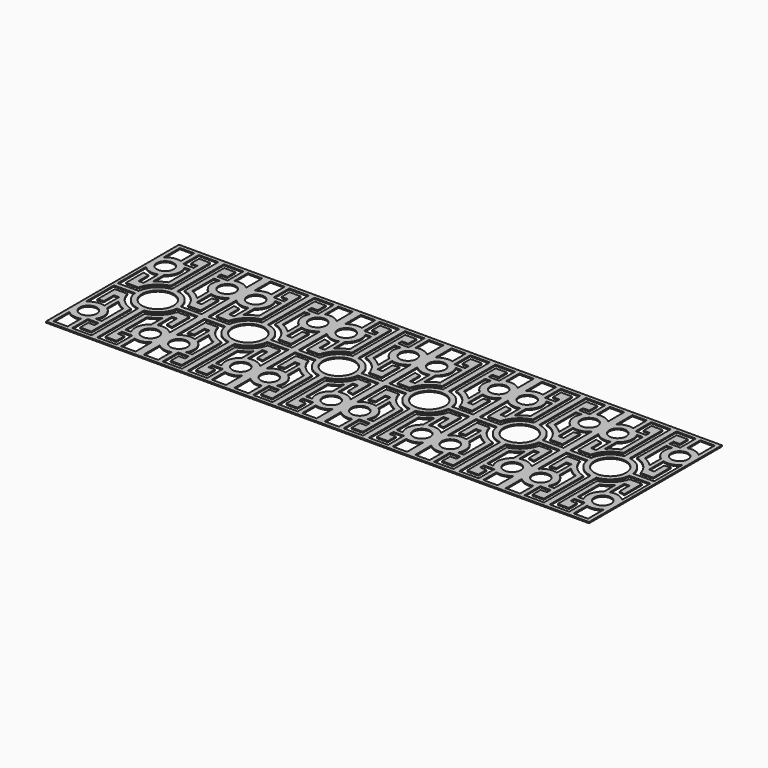
from build123d import *

# Parameters (mm, degrees)
F0_W     = 115.254596
F0_H     = 211.567118
F0_R     = 10.76863
F0_R_2   = 20.192213
F1_DEPTH = 1.5


with BuildPart() as f1:
    # F0 (on Top) → F1 (new body)
    with BuildSketch(Plane.XY):
        with Locations((-115.254596, 0)):
            Rectangle(F0_W, F0_H)
        with BuildLine():
            Line((-149.409611, -100.888878), (-167.683541, -100.888878))
            Line((-167.683541, -100.888878), (-167.683541, -75.117892))
            ThreePointArc((-167.683541, -75.117892), (-159.123179, -79.714213), (-149.409611, -79.484962))
            Line((-149.409611, -79.484962), (-149.409611, -100.888878))
        make_face(mode=Mode.SUBTRACT)
        with BuildLine():
            Line((-62.825651, -75.117892), (-62.825651, -100.888878))
            Line((-62.825651, -100.888878), (-81.099581, -100.888878))
            Line((-81.099581, -100.888878), (-81.099581, -79.484962))
            ThreePointArc((-81.099581, -79.484962), (-71.386013, -79.714213), (-62.825651, -75.117892))
        make_face(mode=Mode.SUBTRACT)
        with Locations((-154.700469, -61.207458)):
            Circle(F0_R, mode=Mode.SUBTRACT)
        with Locations((-75.808723, -61.207458)):
            Circle(F0_R, mode=Mode.SUBTRACT)
        with BuildLine():
            Line((-155.42195, -35.715152), (-155.42195, -19.60209))
            Line((-155.42195, -19.60209), (-148.931565, -19.60209))
            Line((-148.931565, -19.60209), (-148.931565, -42.870585))
            ThreePointArc((-148.931565, -42.870585), (-159.522739, -42.59921), (-168.649089, -47.98032))
            Line((-168.649089, -47.98032), (-168.649089, -3.002684))
            Line((-168.649089, -3.002684), (-141.906762, -3.002684))
            ThreePointArc((-141.906762, -3.002684), (-134.446725, -18.771767), (-118.866944, -26.619478))
            Line((-118.866944, -26.619478), (-118.866944, -100.888878))
            Line((-118.866944, -100.888878), (-143.637769, -100.888878))
            Line((-143.637769, -100.888878), (-143.637769, -75.877562))
            Line((-143.637769, -75.877562), (-130.25521, -75.877562))
            Line((-130.25521, -75.877562), (-130.25521, -81.848532))
            Line((-130.25521, -81.848532), (-138.36528, -81.848532))
            Line((-138.36528, -81.848532), (-138.36528, -94.636053))
            Line((-138.36528, -94.636053), (-124.157799, -94.636053))
            Line((-124.157799, -94.636053), (-123.921924, -31.816343))
            ThreePointArc((-123.921924, -31.816343), (-138.513939, -23.354882), (-147.004679, -8.779884))
            Line((-147.004679, -8.779884), (-162.836828, -8.779884))
            Line((-162.836828, -8.779884), (-162.836828, -37.037686))
            ThreePointArc((-162.836828, -37.037686), (-159.178483, -36.101172), (-155.42195, -35.715152))
        make_face(mode=Mode.SUBTRACT)
        with BuildLine():
            Line((-130.25521, -70.586704), (-137.770742, -70.586704))
            ThreePointArc((-137.770742, -70.586704), (-135.846436, -56.835806), (-143.625837, -45.33489))
            Line((-143.625837, -45.33489), (-143.625837, -27.023167))
            ThreePointArc((-143.625837, -27.023167), (-137.421408, -32.316356), (-130.25521, -36.209734))
            Line((-130.25521, -36.209734), (-130.25521, -70.586704))
        make_face(mode=Mode.SUBTRACT)
        with BuildLine():
            Line((-92.143912, -94.636053), (-92.143912, -81.848532))
            Line((-92.143912, -81.848532), (-100.253982, -81.848532))
            Line((-100.253982, -81.848532), (-100.253982, -75.877562))
            Line((-100.253982, -75.877562), (-86.871423, -75.877562))
            Line((-86.871423, -75.877562), (-86.871423, -100.888878))
            Line((-86.871423, -100.888878), (-111.642247, -100.888878))
            Line((-111.642247, -100.888878), (-111.642247, -26.619478))
            ThreePointArc((-111.642247, -26.619478), (-96.062467, -18.771767), (-88.602429, -3.002684))
            Line((-88.602429, -3.002684), (-61.860103, -3.002684))
            Line((-61.860103, -3.002684), (-61.860103, -47.98032))
            ThreePointArc((-61.860103, -47.98032), (-70.986453, -42.59921), (-81.577626, -42.870585))
            Line((-81.577626, -42.870585), (-81.577626, -19.60209))
            Line((-81.577626, -19.60209), (-75.087242, -19.60209))
            Line((-75.087242, -19.60209), (-75.087242, -35.715152))
            ThreePointArc((-75.087242, -35.715152), (-71.330709, -36.101172), (-67.672363, -37.037686))
            Line((-67.672363, -37.037686), (-67.672363, -8.779884))
            Line((-67.672363, -8.779884), (-83.504513, -8.779884))
            ThreePointArc((-83.504513, -8.779884), (-91.995253, -23.354882), (-106.587267, -31.816343))
            Line((-106.587267, -31.816343), (-106.351392, -94.636053))
            Line((-106.351392, -94.636053), (-92.143912, -94.636053))
        make_face(mode=Mode.SUBTRACT)
        with BuildLine():
            ThreePointArc((-86.883355, -45.33489), (-94.662755, -56.835806), (-92.738449, -70.586704))
            Line((-92.738449, -70.586704), (-100.253982, -70.586704))
            Line((-100.253982, -70.586704), (-100.253982, -36.209734))
            ThreePointArc((-100.253982, -36.209734), (-93.087784, -32.316356), (-86.883355, -27.023167))
            Line((-86.883355, -27.023167), (-86.883355, -45.33489))
        make_face(mode=Mode.SUBTRACT)
        with Locations((-115.254596, 0)):
            Circle(F0_R_2, mode=Mode.SUBTRACT)
        with BuildLine():
            ThreePointArc((-143.625837, 45.33489), (-135.846436, 56.835806), (-137.770742, 70.586704))
            Line((-137.770742, 70.586704), (-130.25521, 70.586704))
            Line((-130.25521, 70.586704), (-130.25521, 36.209734))
            ThreePointArc((-130.25521, 36.209734), (-137.421408, 32.316356), (-143.625837, 27.023167))
            Line((-143.625837, 27.023167), (-143.625837, 45.33489))
        make_face(mode=Mode.SUBTRACT)
        with BuildLine():
            Line((-155.42195, 19.60209), (-155.42195, 35.715152))
            ThreePointArc((-155.42195, 35.715152), (-159.178483, 36.101172), (-162.836828, 37.037686))
            Line((-162.836828, 37.037686), (-162.836828, 8.779884))
            Line((-162.836828, 8.779884), (-147.004679, 8.779884))
            ThreePointArc((-147.004679, 8.779884), (-138.513939, 23.354882), (-123.921924, 31.816343))
            Line((-123.921924, 31.816343), (-124.157799, 94.636053))
            Line((-124.157799, 94.636053), (-138.36528, 94.636053))
            Line((-138.36528, 94.636053), (-138.36528, 81.848532))
            Line((-138.36528, 81.848532), (-130.25521, 81.848532))
            Line((-130.25521, 81.848532), (-130.25521, 75.877562))
            Line((-130.25521, 75.877562), (-143.637769, 75.877562))
            Line((-143.637769, 75.877562), (-143.637769, 100.888878))
            Line((-143.637769, 100.888878), (-118.866944, 100.888878))
            Line((-118.866944, 100.888878), (-118.866944, 26.619478))
            ThreePointArc((-118.866944, 26.619478), (-134.446725, 18.771767), (-141.906762, 3.002684))
            Line((-141.906762, 3.002684), (-168.649089, 3.002684))
            Line((-168.649089, 3.002684), (-168.649089, 47.98032))
            ThreePointArc((-168.649089, 47.98032), (-159.522739, 42.59921), (-148.931565, 42.870585))
            Line((-148.931565, 42.870585), (-148.931565, 19.60209))
            Line((-148.931565, 19.60209), (-155.42195, 19.60209))
        make_face(mode=Mode.SUBTRACT)
        with BuildLine():
            Line((-100.253982, 70.586704), (-92.738449, 70.586704))
            ThreePointArc((-92.738449, 70.586704), (-94.662755, 56.835806), (-86.883355, 45.33489))
            Line((-86.883355, 45.33489), (-86.883355, 27.023167))
            ThreePointArc((-86.883355, 27.023167), (-93.087784, 32.316356), (-100.253982, 36.209734))
            Line((-100.253982, 36.209734), (-100.253982, 70.586704))
        make_face(mode=Mode.SUBTRACT)
        with BuildLine():
            ThreePointArc((-67.672363, 37.037686), (-71.330709, 36.101172), (-75.087242, 35.715152))
            Line((-75.087242, 35.715152), (-75.087242, 19.60209))
            Line((-75.087242, 19.60209), (-81.577626, 19.60209))
            Line((-81.577626, 19.60209), (-81.577626, 42.870585))
            ThreePointArc((-81.577626, 42.870585), (-70.986453, 42.59921), (-61.860103, 47.98032))
            Line((-61.860103, 47.98032), (-61.860103, 3.002684))
            Line((-61.860103, 3.002684), (-88.602429, 3.002684))
            ThreePointArc((-88.602429, 3.002684), (-96.062467, 18.771767), (-111.642247, 26.619478))
            Line((-111.642247, 26.619478), (-111.642247, 100.888878))
            Line((-111.642247, 100.888878), (-86.871423, 100.888878))
            Line((-86.871423, 100.888878), (-86.871423, 75.877562))
            Line((-86.871423, 75.877562), (-100.253982, 75.877562))
            Line((-100.253982, 75.877562), (-100.253982, 81.848532))
            Line((-100.253982, 81.848532), (-92.143912, 81.848532))
            Line((-92.143912, 81.848532), (-92.143912, 94.636053))
            Line((-92.143912, 94.636053), (-106.351392, 94.636053))
            Line((-106.351392, 94.636053), (-106.587267, 31.816343))
            ThreePointArc((-106.587267, 31.816343), (-91.995253, 23.354882), (-83.504513, 8.779884))
            Line((-83.504513, 8.779884), (-67.672363, 8.779884))
            Line((-67.672363, 8.779884), (-67.672363, 37.037686))
        make_face(mode=Mode.SUBTRACT)
        with Locations((-154.700469, 61.207458)):
            Circle(F0_R, mode=Mode.SUBTRACT)
        with Locations((-75.808723, 61.207458)):
            Circle(F0_R, mode=Mode.SUBTRACT)
        with BuildLine():
            Line((-149.409611, 100.888878), (-149.409611, 79.484962))
            ThreePointArc((-149.409611, 79.484962), (-159.123179, 79.714213), (-167.683541, 75.117892))
            Line((-167.683541, 75.117892), (-167.683541, 100.888878))
            Line((-167.683541, 100.888878), (-149.409611, 100.888878))
        make_face(mode=Mode.SUBTRACT)
        with BuildLine():
            Line((-62.825651, 100.888878), (-62.825651, 75.117892))
            ThreePointArc((-62.825651, 75.117892), (-71.386013, 79.714213), (-81.099581, 79.484962))
            Line((-81.099581, 79.484962), (-81.099581, 100.888878))
            Line((-81.099581, 100.888878), (-62.825651, 100.888878))
        make_face(mode=Mode.SUBTRACT)
        with Locations((-230.509192, 0)):
            Rectangle(F0_W, F0_H)
        with BuildLine():
            Line((-264.664207, -100.888878), (-282.938136, -100.888878))
            Line((-282.938136, -100.888878), (-282.938136, -75.117892))
            ThreePointArc((-282.938136, -75.117892), (-274.377775, -79.714213), (-264.664207, -79.484962))
            Line((-264.664207, -79.484962), (-264.664207, -100.888878))
        make_face(mode=Mode.SUBTRACT)
        with Locations((-269.955065, -61.207458)):
            Circle(F0_R, mode=Mode.SUBTRACT)
        with BuildLine():
            Line((-196.354177, -100.888878), (-196.354177, -79.484962))
            ThreePointArc((-196.354177, -79.484962), (-186.640609, -79.714213), (-178.080247, -75.117892))
            Line((-178.080247, -75.117892), (-178.080247, -100.888878))
            Line((-178.080247, -100.888878), (-196.354177, -100.888878))
        make_face(mode=Mode.SUBTRACT)
        with Locations((-191.063318, -61.207458)):
            Circle(F0_R, mode=Mode.SUBTRACT)
        with BuildLine():
            Line((-258.892365, -75.877562), (-245.509806, -75.877562))
            Line((-245.509806, -75.877562), (-245.509806, -81.848532))
            Line((-245.509806, -81.848532), (-253.619876, -81.848532))
            Line((-253.619876, -81.848532), (-253.619876, -94.636053))
            Line((-253.619876, -94.636053), (-239.412395, -94.636053))
            Line((-239.412395, -94.636053), (-239.17652, -31.816343))
            ThreePointArc((-239.17652, -31.816343), (-253.768535, -23.354882), (-262.259275, -8.779884))
            Line((-262.259275, -8.779884), (-278.091424, -8.779884))
            Line((-278.091424, -8.779884), (-278.091424, -37.037686))
            ThreePointArc((-278.091424, -37.037686), (-274.433079, -36.101172), (-270.676546, -35.715152))
            Line((-270.676546, -35.715152), (-270.676546, -19.60209))
            Line((-270.676546, -19.60209), (-264.186161, -19.60209))
            Line((-264.186161, -19.60209), (-264.186161, -42.870585))
            ThreePointArc((-264.186161, -42.870585), (-274.777335, -42.59921), (-283.903684, -47.98032))
            Line((-283.903684, -47.98032), (-283.903684, -3.002684))
            Line((-283.903684, -3.002684), (-257.161358, -3.002684))
            ThreePointArc((-257.161358, -3.002684), (-249.701321, -18.771767), (-234.12154, -26.619478))
            Line((-234.12154, -26.619478), (-234.12154, -100.888878))
            Line((-234.12154, -100.888878), (-258.892365, -100.888878))
            Line((-258.892365, -100.888878), (-258.892365, -75.877562))
        make_face(mode=Mode.SUBTRACT)
        with BuildLine():
            Line((-245.509806, -70.586704), (-253.025338, -70.586704))
            ThreePointArc((-253.025338, -70.586704), (-251.101032, -56.835806), (-258.880433, -45.33489))
            Line((-258.880433, -45.33489), (-258.880433, -27.023167))
            ThreePointArc((-258.880433, -27.023167), (-252.676004, -32.316356), (-245.509806, -36.209734))
            Line((-245.509806, -36.209734), (-245.509806, -70.586704))
        make_face(mode=Mode.SUBTRACT)
        with BuildLine():
            Line((-196.832222, -19.60209), (-190.341838, -19.60209))
            Line((-190.341838, -19.60209), (-190.341838, -35.715152))
            ThreePointArc((-190.341838, -35.715152), (-186.585305, -36.101172), (-182.926959, -37.037686))
            Line((-182.926959, -37.037686), (-182.926959, -8.779884))
            Line((-182.926959, -8.779884), (-198.759109, -8.779884))
            ThreePointArc((-198.759109, -8.779884), (-207.249849, -23.354882), (-221.841863, -31.816343))
            Line((-221.841863, -31.816343), (-221.605988, -94.636053))
            Line((-221.605988, -94.636053), (-207.398508, -94.636053))
            Line((-207.398508, -94.636053), (-207.398508, -81.848532))
            Line((-207.398508, -81.848532), (-215.508577, -81.848532))
            Line((-215.508577, -81.848532), (-215.508577, -75.877562))
            Line((-215.508577, -75.877562), (-202.126019, -75.877562))
            Line((-202.126019, -75.877562), (-202.126019, -100.888878))
            Line((-202.126019, -100.888878), (-226.896843, -100.888878))
            Line((-226.896843, -100.888878), (-226.896843, -26.619478))
            ThreePointArc((-226.896843, -26.619478), (-211.317063, -18.771767), (-203.857025, -3.002684))
            Line((-203.857025, -3.002684), (-177.114699, -3.002684))
            Line((-177.114699, -3.002684), (-177.114699, -47.98032))
            ThreePointArc((-177.114699, -47.98032), (-186.241049, -42.59921), (-196.832222, -42.870585))
            Line((-196.832222, -42.870585), (-196.832222, -19.60209))
        make_face(mode=Mode.SUBTRACT)
        with BuildLine():
            ThreePointArc((-202.137951, -45.33489), (-209.917351, -56.835806), (-207.993045, -70.586704))
            Line((-207.993045, -70.586704), (-215.508577, -70.586704))
            Line((-215.508577, -70.586704), (-215.508577, -36.209734))
            ThreePointArc((-215.508577, -36.209734), (-208.34238, -32.316356), (-202.137951, -27.023167))
            Line((-202.137951, -27.023167), (-202.137951, -45.33489))
        make_face(mode=Mode.SUBTRACT)
        with BuildLine():
            ThreePointArc((-258.880433, 45.33489), (-251.101032, 56.835806), (-253.025338, 70.586704))
            Line((-253.025338, 70.586704), (-245.509806, 70.586704))
            Line((-245.509806, 70.586704), (-245.509806, 36.209734))
            ThreePointArc((-245.509806, 36.209734), (-252.676004, 32.316356), (-258.880433, 27.023167))
            Line((-258.880433, 27.023167), (-258.880433, 45.33489))
        make_face(mode=Mode.SUBTRACT)
        with BuildLine():
            Line((-245.509806, 81.848532), (-245.509806, 75.877562))
            Line((-245.509806, 75.877562), (-258.892365, 75.877562))
            Line((-258.892365, 75.877562), (-258.892365, 100.888878))
            Line((-258.892365, 100.888878), (-234.12154, 100.888878))
            Line((-234.12154, 100.888878), (-234.12154, 26.619478))
            ThreePointArc((-234.12154, 26.619478), (-249.701321, 18.771767), (-257.161358, 3.002684))
            Line((-257.161358, 3.002684), (-283.903684, 3.002684))
            Line((-283.903684, 3.002684), (-283.903684, 47.98032))
            ThreePointArc((-283.903684, 47.98032), (-274.777335, 42.59921), (-264.186161, 42.870585))
            Line((-264.186161, 42.870585), (-264.186161, 19.60209))
            Line((-264.186161, 19.60209), (-270.676546, 19.60209))
            Line((-270.676546, 19.60209), (-270.676546, 35.715152))
            ThreePointArc((-270.676546, 35.715152), (-274.433079, 36.101172), (-278.091424, 37.037686))
            Line((-278.091424, 37.037686), (-278.091424, 8.779884))
            Line((-278.091424, 8.779884), (-262.259275, 8.779884))
            ThreePointArc((-262.259275, 8.779884), (-253.768535, 23.354882), (-239.17652, 31.816343))
            Line((-239.17652, 31.816343), (-239.412395, 94.636053))
            Line((-239.412395, 94.636053), (-253.619876, 94.636053))
            Line((-253.619876, 94.636053), (-253.619876, 81.848532))
            Line((-253.619876, 81.848532), (-245.509806, 81.848532))
        make_face(mode=Mode.SUBTRACT)
        with Locations((-230.509192, 0)):
            Circle(F0_R_2, mode=Mode.SUBTRACT)
        with BuildLine():
            Line((-215.508577, 70.586704), (-207.993045, 70.586704))
            ThreePointArc((-207.993045, 70.586704), (-209.917351, 56.835806), (-202.137951, 45.33489))
            Line((-202.137951, 45.33489), (-202.137951, 27.023167))
            ThreePointArc((-202.137951, 27.023167), (-208.34238, 32.316356), (-215.508577, 36.209734))
            Line((-215.508577, 36.209734), (-215.508577, 70.586704))
        make_face(mode=Mode.SUBTRACT)
        with BuildLine():
            Line((-202.126019, 75.877562), (-215.508577, 75.877562))
            Line((-215.508577, 75.877562), (-215.508577, 81.848532))
            Line((-215.508577, 81.848532), (-207.398508, 81.848532))
            Line((-207.398508, 81.848532), (-207.398508, 94.636053))
            Line((-207.398508, 94.636053), (-221.605988, 94.636053))
            Line((-221.605988, 94.636053), (-221.841863, 31.816343))
            ThreePointArc((-221.841863, 31.816343), (-207.249849, 23.354882), (-198.759109, 8.779884))
            Line((-198.759109, 8.779884), (-182.926959, 8.779884))
            Line((-182.926959, 8.779884), (-182.926959, 37.037686))
            ThreePointArc((-182.926959, 37.037686), (-186.585305, 36.101172), (-190.341838, 35.715152))
            Line((-190.341838, 35.715152), (-190.341838, 19.60209))
            Line((-190.341838, 19.60209), (-196.832222, 19.60209))
            Line((-196.832222, 19.60209), (-196.832222, 42.870585))
            ThreePointArc((-196.832222, 42.870585), (-186.241049, 42.59921), (-177.114699, 47.98032))
            Line((-177.114699, 47.98032), (-177.114699, 3.002684))
            Line((-177.114699, 3.002684), (-203.857025, 3.002684))
            ThreePointArc((-203.857025, 3.002684), (-211.317063, 18.771767), (-226.896843, 26.619478))
            Line((-226.896843, 26.619478), (-226.896843, 100.888878))
            Line((-226.896843, 100.888878), (-202.126019, 100.888878))
            Line((-202.126019, 100.888878), (-202.126019, 75.877562))
        make_face(mode=Mode.SUBTRACT)
        with Locations((-269.955065, 61.207458)):
            Circle(F0_R, mode=Mode.SUBTRACT)
        with BuildLine():
            Line((-264.664207, 100.888878), (-264.664207, 79.484962))
            ThreePointArc((-264.664207, 79.484962), (-274.377775, 79.714213), (-282.938136, 75.117892))
            Line((-282.938136, 75.117892), (-282.938136, 100.888878))
            Line((-282.938136, 100.888878), (-264.664207, 100.888878))
        make_face(mode=Mode.SUBTRACT)
        with Locations((-191.063318, 61.207458)):
            Circle(F0_R, mode=Mode.SUBTRACT)
        with BuildLine():
            Line((-178.080247, 100.888878), (-178.080247, 75.117892))
            ThreePointArc((-178.080247, 75.117892), (-186.640609, 79.714213), (-196.354177, 79.484962))
            Line((-196.354177, 79.484962), (-196.354177, 100.888878))
            Line((-196.354177, 100.888878), (-178.080247, 100.888878))
        make_face(mode=Mode.SUBTRACT)
        with Locations((-345.763788, 0)):
            Rectangle(F0_W, F0_H)
        with BuildLine():
            ThreePointArc((-398.192732, -75.117892), (-389.63237, -79.714213), (-379.918803, -79.484962))
            Line((-379.918803, -79.484962), (-379.918803, -100.888878))
            Line((-379.918803, -100.888878), (-398.192732, -100.888878))
            Line((-398.192732, -100.888878), (-398.192732, -75.117892))
        make_face(mode=Mode.SUBTRACT)
        with BuildLine():
            Line((-311.608773, -100.888878), (-311.608773, -79.484962))
            ThreePointArc((-311.608773, -79.484962), (-301.895205, -79.714213), (-293.334843, -75.117892))
            Line((-293.334843, -75.117892), (-293.334843, -100.888878))
            Line((-293.334843, -100.888878), (-311.608773, -100.888878))
        make_face(mode=Mode.SUBTRACT)
        with Locations((-385.209661, -61.207458)):
            Circle(F0_R, mode=Mode.SUBTRACT)
        with Locations((-306.317914, -61.207458)):
            Circle(F0_R, mode=Mode.SUBTRACT)
        with BuildLine():
            Line((-385.931142, -35.715152), (-385.931142, -19.60209))
            Line((-385.931142, -19.60209), (-379.440757, -19.60209))
            Line((-379.440757, -19.60209), (-379.440757, -42.870585))
            ThreePointArc((-379.440757, -42.870585), (-390.031931, -42.59921), (-399.15828, -47.98032))
            Line((-399.15828, -47.98032), (-399.15828, -3.002684))
            Line((-399.15828, -3.002684), (-372.415954, -3.002684))
            ThreePointArc((-372.415954, -3.002684), (-364.955917, -18.771767), (-349.376136, -26.619478))
            Line((-349.376136, -26.619478), (-349.376136, -100.888878))
            Line((-349.376136, -100.888878), (-374.146961, -100.888878))
            Line((-374.146961, -100.888878), (-374.146961, -75.877562))
            Line((-374.146961, -75.877562), (-360.764402, -75.877562))
            Line((-360.764402, -75.877562), (-360.764402, -81.848532))
            Line((-360.764402, -81.848532), (-368.874472, -81.848532))
            Line((-368.874472, -81.848532), (-368.874472, -94.636053))
            Line((-368.874472, -94.636053), (-354.666991, -94.636053))
            Line((-354.666991, -94.636053), (-354.431116, -31.816343))
            ThreePointArc((-354.431116, -31.816343), (-369.023131, -23.354882), (-377.513871, -8.779884))
            Line((-377.513871, -8.779884), (-393.34602, -8.779884))
            Line((-393.34602, -8.779884), (-393.34602, -37.037686))
            ThreePointArc((-393.34602, -37.037686), (-389.687675, -36.101172), (-385.931142, -35.715152))
        make_face(mode=Mode.SUBTRACT)
        with BuildLine():
            Line((-360.764402, -70.586704), (-368.279934, -70.586704))
            ThreePointArc((-368.279934, -70.586704), (-366.355628, -56.835806), (-374.135029, -45.33489))
            Line((-374.135029, -45.33489), (-374.135029, -27.023167))
            ThreePointArc((-374.135029, -27.023167), (-367.9306, -32.316356), (-360.764402, -36.209734))
            Line((-360.764402, -36.209734), (-360.764402, -70.586704))
        make_face(mode=Mode.SUBTRACT)
        with BuildLine():
            Line((-330.763173, -81.848532), (-330.763173, -75.877562))
            Line((-330.763173, -75.877562), (-317.380615, -75.877562))
            Line((-317.380615, -75.877562), (-317.380615, -100.888878))
            Line((-317.380615, -100.888878), (-342.151439, -100.888878))
            Line((-342.151439, -100.888878), (-342.151439, -26.619478))
            ThreePointArc((-342.151439, -26.619478), (-326.571658, -18.771767), (-319.111621, -3.002684))
            Line((-319.111621, -3.002684), (-292.369295, -3.002684))
            Line((-292.369295, -3.002684), (-292.369295, -47.98032))
            ThreePointArc((-292.369295, -47.98032), (-301.495645, -42.59921), (-312.086818, -42.870585))
            Line((-312.086818, -42.870585), (-312.086818, -19.60209))
            Line((-312.086818, -19.60209), (-305.596434, -19.60209))
            Line((-305.596434, -19.60209), (-305.596434, -35.715152))
            ThreePointArc((-305.596434, -35.715152), (-301.839901, -36.101172), (-298.181555, -37.037686))
            Line((-298.181555, -37.037686), (-298.181555, -8.779884))
            Line((-298.181555, -8.779884), (-314.013705, -8.779884))
            ThreePointArc((-314.013705, -8.779884), (-322.504444, -23.354882), (-337.096459, -31.816343))
            Line((-337.096459, -31.816343), (-336.860584, -94.636053))
            Line((-336.860584, -94.636053), (-322.653104, -94.636053))
            Line((-322.653104, -94.636053), (-322.653104, -81.848532))
            Line((-322.653104, -81.848532), (-330.763173, -81.848532))
        make_face(mode=Mode.SUBTRACT)
        with BuildLine():
            ThreePointArc((-317.392547, -45.33489), (-325.171947, -56.835806), (-323.247641, -70.586704))
            Line((-323.247641, -70.586704), (-330.763173, -70.586704))
            Line((-330.763173, -70.586704), (-330.763173, -36.209734))
            ThreePointArc((-330.763173, -36.209734), (-323.596975, -32.316356), (-317.392547, -27.023167))
            Line((-317.392547, -27.023167), (-317.392547, -45.33489))
        make_face(mode=Mode.SUBTRACT)
        with Locations((-345.763788, 0)):
            Circle(F0_R_2, mode=Mode.SUBTRACT)
        with BuildLine():
            ThreePointArc((-374.135029, 45.33489), (-366.355628, 56.835806), (-368.279934, 70.586704))
            Line((-368.279934, 70.586704), (-360.764402, 70.586704))
            Line((-360.764402, 70.586704), (-360.764402, 36.209734))
            ThreePointArc((-360.764402, 36.209734), (-367.9306, 32.316356), (-374.135029, 27.023167))
            Line((-374.135029, 27.023167), (-374.135029, 45.33489))
        make_face(mode=Mode.SUBTRACT)
        with BuildLine():
            Line((-360.764402, 81.848532), (-360.764402, 75.877562))
            Line((-360.764402, 75.877562), (-374.146961, 75.877562))
            Line((-374.146961, 75.877562), (-374.146961, 100.888878))
            Line((-374.146961, 100.888878), (-349.376136, 100.888878))
            Line((-349.376136, 100.888878), (-349.376136, 26.619478))
            ThreePointArc((-349.376136, 26.619478), (-364.955917, 18.771767), (-372.415954, 3.002684))
            Line((-372.415954, 3.002684), (-399.15828, 3.002684))
            Line((-399.15828, 3.002684), (-399.15828, 47.98032))
            ThreePointArc((-399.15828, 47.98032), (-390.031931, 42.59921), (-379.440757, 42.870585))
            Line((-379.440757, 42.870585), (-379.440757, 19.60209))
            Line((-379.440757, 19.60209), (-385.931142, 19.60209))
            Line((-385.931142, 19.60209), (-385.931142, 35.715152))
            ThreePointArc((-385.931142, 35.715152), (-389.687675, 36.101172), (-393.34602, 37.037686))
            Line((-393.34602, 37.037686), (-393.34602, 8.779884))
            Line((-393.34602, 8.779884), (-377.513871, 8.779884))
            ThreePointArc((-377.513871, 8.779884), (-369.023131, 23.354882), (-354.431116, 31.816343))
            Line((-354.431116, 31.816343), (-354.666991, 94.636053))
            Line((-354.666991, 94.636053), (-368.874472, 94.636053))
            Line((-368.874472, 94.636053), (-368.874472, 81.848532))
            Line((-368.874472, 81.848532), (-360.764402, 81.848532))
        make_face(mode=Mode.SUBTRACT)
        with BuildLine():
            Line((-330.763173, 70.586704), (-323.247641, 70.586704))
            ThreePointArc((-323.247641, 70.586704), (-325.171947, 56.835806), (-317.392547, 45.33489))
            Line((-317.392547, 45.33489), (-317.392547, 27.023167))
            ThreePointArc((-317.392547, 27.023167), (-323.596975, 32.316356), (-330.763173, 36.209734))
            Line((-330.763173, 36.209734), (-330.763173, 70.586704))
        make_face(mode=Mode.SUBTRACT)
        with BuildLine():
            ThreePointArc((-298.181555, 37.037686), (-301.839901, 36.101172), (-305.596434, 35.715152))
            Line((-305.596434, 35.715152), (-305.596434, 19.60209))
            Line((-305.596434, 19.60209), (-312.086818, 19.60209))
            Line((-312.086818, 19.60209), (-312.086818, 42.870585))
            ThreePointArc((-312.086818, 42.870585), (-301.495645, 42.59921), (-292.369295, 47.98032))
            Line((-292.369295, 47.98032), (-292.369295, 3.002684))
            Line((-292.369295, 3.002684), (-319.111621, 3.002684))
            ThreePointArc((-319.111621, 3.002684), (-326.571658, 18.771767), (-342.151439, 26.619478))
            Line((-342.151439, 26.619478), (-342.151439, 100.888878))
            Line((-342.151439, 100.888878), (-317.380615, 100.888878))
            Line((-317.380615, 100.888878), (-317.380615, 75.877562))
            Line((-317.380615, 75.877562), (-330.763173, 75.877562))
            Line((-330.763173, 75.877562), (-330.763173, 81.848532))
            Line((-330.763173, 81.848532), (-322.653104, 81.848532))
            Line((-322.653104, 81.848532), (-322.653104, 94.636053))
            Line((-322.653104, 94.636053), (-336.860584, 94.636053))
            Line((-336.860584, 94.636053), (-337.096459, 31.816343))
            ThreePointArc((-337.096459, 31.816343), (-322.504444, 23.354882), (-314.013705, 8.779884))
            Line((-314.013705, 8.779884), (-298.181555, 8.779884))
            Line((-298.181555, 8.779884), (-298.181555, 37.037686))
        make_face(mode=Mode.SUBTRACT)
        with Locations((-385.209661, 61.207458)):
            Circle(F0_R, mode=Mode.SUBTRACT)
        with Locations((-306.317914, 61.207458)):
            Circle(F0_R, mode=Mode.SUBTRACT)
        with BuildLine():
            Line((-398.192732, 75.117892), (-398.192732, 100.888878))
            Line((-398.192732, 100.888878), (-379.918803, 100.888878))
            Line((-379.918803, 100.888878), (-379.918803, 79.484962))
            ThreePointArc((-379.918803, 79.484962), (-389.63237, 79.714213), (-398.192732, 75.117892))
        make_face(mode=Mode.SUBTRACT)
        with BuildLine():
            Line((-311.608773, 100.888878), (-293.334843, 100.888878))
            Line((-293.334843, 100.888878), (-293.334843, 75.117892))
            ThreePointArc((-293.334843, 75.117892), (-301.895205, 79.714213), (-311.608773, 79.484962))
            Line((-311.608773, 79.484962), (-311.608773, 100.888878))
        make_face(mode=Mode.SUBTRACT)
        Rectangle(F0_W, F0_H)
        with BuildLine():
            ThreePointArc((-52.428945, -75.117892), (-43.868583, -79.714213), (-34.155015, -79.484962))
            Line((-34.155015, -79.484962), (-34.155015, -100.888878))
            Line((-34.155015, -100.888878), (-52.428945, -100.888878))
            Line((-52.428945, -100.888878), (-52.428945, -75.117892))
        make_face(mode=Mode.SUBTRACT)
        with BuildLine():
            Line((52.428945, -75.117892), (52.428945, -100.888878))
            Line((52.428945, -100.888878), (34.155015, -100.888878))
            Line((34.155015, -100.888878), (34.155015, -79.484962))
            ThreePointArc((34.155015, -79.484962), (43.868583, -79.714213), (52.428945, -75.117892))
        make_face(mode=Mode.SUBTRACT)
        with Locations((-39.445873, -61.207458)):
            Circle(F0_R, mode=Mode.SUBTRACT)
        with Locations((39.445873, -61.207458)):
            Circle(F0_R, mode=Mode.SUBTRACT)
        with BuildLine():
            Line((-28.383173, -75.877562), (-15.000614, -75.877562))
            Line((-15.000614, -75.877562), (-15.000614, -81.848532))
            Line((-15.000614, -81.848532), (-23.110684, -81.848532))
            Line((-23.110684, -81.848532), (-23.110684, -94.636053))
            Line((-23.110684, -94.636053), (-8.903204, -94.636053))
            Line((-8.903204, -94.636053), (-8.667328, -31.816343))
            ThreePointArc((-8.667328, -31.816343), (-23.259343, -23.354882), (-31.750083, -8.779884))
            Line((-31.750083, -8.779884), (-47.582232, -8.779884))
            Line((-47.582232, -8.779884), (-47.582232, -37.037686))
            ThreePointArc((-47.582232, -37.037686), (-43.923887, -36.101172), (-40.167354, -35.715152))
            Line((-40.167354, -35.715152), (-40.167354, -19.60209))
            Line((-40.167354, -19.60209), (-33.67697, -19.60209))
            Line((-33.67697, -19.60209), (-33.67697, -42.870585))
            ThreePointArc((-33.67697, -42.870585), (-44.268143, -42.59921), (-53.394493, -47.98032))
            Line((-53.394493, -47.98032), (-53.394493, -3.002684))
            Line((-53.394493, -3.002684), (-26.652166, -3.002684))
            ThreePointArc((-26.652166, -3.002684), (-19.192129, -18.771767), (-3.612349, -26.619478))
            Line((-3.612349, -26.619478), (-3.612349, -100.888878))
            Line((-3.612349, -100.888878), (-28.383173, -100.888878))
            Line((-28.383173, -100.888878), (-28.383173, -75.877562))
        make_face(mode=Mode.SUBTRACT)
        with BuildLine():
            Line((-15.000614, -70.586704), (-22.516146, -70.586704))
            ThreePointArc((-22.516146, -70.586704), (-20.591841, -56.835806), (-28.371241, -45.33489))
            Line((-28.371241, -45.33489), (-28.371241, -27.023167))
            ThreePointArc((-28.371241, -27.023167), (-22.166812, -32.316356), (-15.000614, -36.209734))
            Line((-15.000614, -36.209734), (-15.000614, -70.586704))
        make_face(mode=Mode.SUBTRACT)
        with BuildLine():
            Line((33.67697, -19.60209), (40.167354, -19.60209))
            Line((40.167354, -19.60209), (40.167354, -35.715152))
            ThreePointArc((40.167354, -35.715152), (43.923887, -36.101172), (47.582232, -37.037686))
            Line((47.582232, -37.037686), (47.582232, -8.779884))
            Line((47.582232, -8.779884), (31.750083, -8.779884))
            ThreePointArc((31.750083, -8.779884), (23.259343, -23.354882), (8.667328, -31.816343))
            Line((8.667328, -31.816343), (8.903204, -94.636053))
            Line((8.903204, -94.636053), (23.110684, -94.636053))
            Line((23.110684, -94.636053), (23.110684, -81.848532))
            Line((23.110684, -81.848532), (15.000614, -81.848532))
            Line((15.000614, -81.848532), (15.000614, -75.877562))
            Line((15.000614, -75.877562), (28.383173, -75.877562))
            Line((28.383173, -75.877562), (28.383173, -100.888878))
            Line((28.383173, -100.888878), (3.612349, -100.888878))
            Line((3.612349, -100.888878), (3.612349, -26.619478))
            ThreePointArc((3.612349, -26.619478), (19.192129, -18.771767), (26.652166, -3.002684))
            Line((26.652166, -3.002684), (53.394493, -3.002684))
            Line((53.394493, -3.002684), (53.394493, -47.98032))
            ThreePointArc((53.394493, -47.98032), (44.268143, -42.59921), (33.67697, -42.870585))
            Line((33.67697, -42.870585), (33.67697, -19.60209))
        make_face(mode=Mode.SUBTRACT)
        with BuildLine():
            ThreePointArc((28.371241, -45.33489), (20.591841, -56.835806), (22.516146, -70.586704))
            Line((22.516146, -70.586704), (15.000614, -70.586704))
            Line((15.000614, -70.586704), (15.000614, -36.209734))
            ThreePointArc((15.000614, -36.209734), (22.166812, -32.316356), (28.371241, -27.023167))
            Line((28.371241, -27.023167), (28.371241, -45.33489))
        make_face(mode=Mode.SUBTRACT)
        Circle(F0_R_2, mode=Mode.SUBTRACT)
        with BuildLine():
            ThreePointArc((-28.371241, 45.33489), (-20.591841, 56.835806), (-22.516146, 70.586704))
            Line((-22.516146, 70.586704), (-15.000614, 70.586704))
            Line((-15.000614, 70.586704), (-15.000614, 36.209734))
            ThreePointArc((-15.000614, 36.209734), (-22.166812, 32.316356), (-28.371241, 27.023167))
            Line((-28.371241, 27.023167), (-28.371241, 45.33489))
        make_face(mode=Mode.SUBTRACT)
        with BuildLine():
            Line((-15.000614, 81.848532), (-15.000614, 75.877562))
            Line((-15.000614, 75.877562), (-28.383173, 75.877562))
            Line((-28.383173, 75.877562), (-28.383173, 100.888878))
            Line((-28.383173, 100.888878), (-3.612349, 100.888878))
            Line((-3.612349, 100.888878), (-3.612349, 26.619478))
            ThreePointArc((-3.612349, 26.619478), (-19.192129, 18.771767), (-26.652166, 3.002684))
            Line((-26.652166, 3.002684), (-53.394493, 3.002684))
            Line((-53.394493, 3.002684), (-53.394493, 47.98032))
            ThreePointArc((-53.394493, 47.98032), (-44.268143, 42.59921), (-33.67697, 42.870585))
            Line((-33.67697, 42.870585), (-33.67697, 19.60209))
            Line((-33.67697, 19.60209), (-40.167354, 19.60209))
            Line((-40.167354, 19.60209), (-40.167354, 35.715152))
            ThreePointArc((-40.167354, 35.715152), (-43.923887, 36.101172), (-47.582232, 37.037686))
            Line((-47.582232, 37.037686), (-47.582232, 8.779884))
            Line((-47.582232, 8.779884), (-31.750083, 8.779884))
            ThreePointArc((-31.750083, 8.779884), (-23.259343, 23.354882), (-8.667328, 31.816343))
            Line((-8.667328, 31.816343), (-8.903204, 94.636053))
            Line((-8.903204, 94.636053), (-23.110684, 94.636053))
            Line((-23.110684, 94.636053), (-23.110684, 81.848532))
            Line((-23.110684, 81.848532), (-15.000614, 81.848532))
        make_face(mode=Mode.SUBTRACT)
        with BuildLine():
            Line((15.000614, 70.586704), (22.516146, 70.586704))
            ThreePointArc((22.516146, 70.586704), (20.591841, 56.835806), (28.371241, 45.33489))
            Line((28.371241, 45.33489), (28.371241, 27.023167))
            ThreePointArc((28.371241, 27.023167), (22.166812, 32.316356), (15.000614, 36.209734))
            Line((15.000614, 36.209734), (15.000614, 70.586704))
        make_face(mode=Mode.SUBTRACT)
        with BuildLine():
            ThreePointArc((47.582232, 37.037686), (43.923887, 36.101172), (40.167354, 35.715152))
            Line((40.167354, 35.715152), (40.167354, 19.60209))
            Line((40.167354, 19.60209), (33.67697, 19.60209))
            Line((33.67697, 19.60209), (33.67697, 42.870585))
            ThreePointArc((33.67697, 42.870585), (44.268143, 42.59921), (53.394493, 47.98032))
            Line((53.394493, 47.98032), (53.394493, 3.002684))
            Line((53.394493, 3.002684), (26.652166, 3.002684))
            ThreePointArc((26.652166, 3.002684), (19.192129, 18.771767), (3.612349, 26.619478))
            Line((3.612349, 26.619478), (3.612349, 100.888878))
            Line((3.612349, 100.888878), (28.383173, 100.888878))
            Line((28.383173, 100.888878), (28.383173, 75.877562))
            Line((28.383173, 75.877562), (15.000614, 75.877562))
            Line((15.000614, 75.877562), (15.000614, 81.848532))
            Line((15.000614, 81.848532), (23.110684, 81.848532))
            Line((23.110684, 81.848532), (23.110684, 94.636053))
            Line((23.110684, 94.636053), (8.903204, 94.636053))
            Line((8.903204, 94.636053), (8.667328, 31.816343))
            ThreePointArc((8.667328, 31.816343), (23.259343, 23.354882), (31.750083, 8.779884))
            Line((31.750083, 8.779884), (47.582232, 8.779884))
            Line((47.582232, 8.779884), (47.582232, 37.037686))
        make_face(mode=Mode.SUBTRACT)
        with Locations((-39.445873, 61.207458)):
            Circle(F0_R, mode=Mode.SUBTRACT)
        with Locations((39.445873, 61.207458)):
            Circle(F0_R, mode=Mode.SUBTRACT)
        with BuildLine():
            Line((-52.428945, 75.117892), (-52.428945, 100.888878))
            Line((-52.428945, 100.888878), (-34.155015, 100.888878))
            Line((-34.155015, 100.888878), (-34.155015, 79.484962))
            ThreePointArc((-34.155015, 79.484962), (-43.868583, 79.714213), (-52.428945, 75.117892))
        make_face(mode=Mode.SUBTRACT)
        with BuildLine():
            Line((34.155015, 100.888878), (52.428945, 100.888878))
            Line((52.428945, 100.888878), (52.428945, 75.117892))
            ThreePointArc((52.428945, 75.117892), (43.868583, 79.714213), (34.155015, 79.484962))
            Line((34.155015, 79.484962), (34.155015, 100.888878))
        make_face(mode=Mode.SUBTRACT)
        with Locations((115.254596, 0)):
            Rectangle(F0_W, F0_H)
        with BuildLine():
            Line((81.099581, -100.888878), (62.825651, -100.888878))
            Line((62.825651, -100.888878), (62.825651, -75.117892))
            ThreePointArc((62.825651, -75.117892), (71.386013, -79.714213), (81.099581, -79.484962))
            Line((81.099581, -79.484962), (81.099581, -100.888878))
        make_face(mode=Mode.SUBTRACT)
        with Locations((75.808723, -61.207458)):
            Circle(F0_R, mode=Mode.SUBTRACT)
        with BuildLine():
            Line((167.683541, -75.117892), (167.683541, -100.888878))
            Line((167.683541, -100.888878), (149.409611, -100.888878))
            Line((149.409611, -100.888878), (149.409611, -79.484962))
            ThreePointArc((149.409611, -79.484962), (159.123179, -79.714213), (167.683541, -75.117892))
        make_face(mode=Mode.SUBTRACT)
        with Locations((154.700469, -61.207458)):
            Circle(F0_R, mode=Mode.SUBTRACT)
        with BuildLine():
            Line((86.871423, -75.877562), (100.253982, -75.877562))
            Line((100.253982, -75.877562), (100.253982, -81.848532))
            Line((100.253982, -81.848532), (92.143912, -81.848532))
            Line((92.143912, -81.848532), (92.143912, -94.636053))
            Line((92.143912, -94.636053), (106.351392, -94.636053))
            Line((106.351392, -94.636053), (106.587267, -31.816343))
            ThreePointArc((106.587267, -31.816343), (91.995253, -23.354882), (83.504513, -8.779884))
            Line((83.504513, -8.779884), (67.672363, -8.779884))
            Line((67.672363, -8.779884), (67.672363, -37.037686))
            ThreePointArc((67.672363, -37.037686), (71.330709, -36.101172), (75.087242, -35.715152))
            Line((75.087242, -35.715152), (75.087242, -19.60209))
            Line((75.087242, -19.60209), (81.577626, -19.60209))
            Line((81.577626, -19.60209), (81.577626, -42.870585))
            ThreePointArc((81.577626, -42.870585), (70.986453, -42.59921), (61.860103, -47.98032))
            Line((61.860103, -47.98032), (61.860103, -3.002684))
            Line((61.860103, -3.002684), (88.602429, -3.002684))
            ThreePointArc((88.602429, -3.002684), (96.062467, -18.771767), (111.642247, -26.619478))
            Line((111.642247, -26.619478), (111.642247, -100.888878))
            Line((111.642247, -100.888878), (86.871423, -100.888878))
            Line((86.871423, -100.888878), (86.871423, -75.877562))
        make_face(mode=Mode.SUBTRACT)
        with BuildLine():
            Line((100.253982, -70.586704), (92.738449, -70.586704))
            ThreePointArc((92.738449, -70.586704), (94.662755, -56.835806), (86.883355, -45.33489))
            Line((86.883355, -45.33489), (86.883355, -27.023167))
            ThreePointArc((86.883355, -27.023167), (93.087784, -32.316356), (100.253982, -36.209734))
            Line((100.253982, -36.209734), (100.253982, -70.586704))
        make_face(mode=Mode.SUBTRACT)
        with BuildLine():
            Line((130.25521, -81.848532), (130.25521, -75.877562))
            Line((130.25521, -75.877562), (143.637769, -75.877562))
            Line((143.637769, -75.877562), (143.637769, -100.888878))
            Line((143.637769, -100.888878), (118.866944, -100.888878))
            Line((118.866944, -100.888878), (118.866944, -26.619478))
            ThreePointArc((118.866944, -26.619478), (134.446725, -18.771767), (141.906762, -3.002684))
            Line((141.906762, -3.002684), (168.649089, -3.002684))
            Line((168.649089, -3.002684), (168.649089, -47.98032))
            ThreePointArc((168.649089, -47.98032), (159.522739, -42.59921), (148.931565, -42.870585))
            Line((148.931565, -42.870585), (148.931565, -19.60209))
            Line((148.931565, -19.60209), (155.42195, -19.60209))
            Line((155.42195, -19.60209), (155.42195, -35.715152))
            ThreePointArc((155.42195, -35.715152), (159.178483, -36.101172), (162.836828, -37.037686))
            Line((162.836828, -37.037686), (162.836828, -8.779884))
            Line((162.836828, -8.779884), (147.004679, -8.779884))
            ThreePointArc((147.004679, -8.779884), (138.513939, -23.354882), (123.921924, -31.816343))
            Line((123.921924, -31.816343), (124.157799, -94.636053))
            Line((124.157799, -94.636053), (138.36528, -94.636053))
            Line((138.36528, -94.636053), (138.36528, -81.848532))
            Line((138.36528, -81.848532), (130.25521, -81.848532))
        make_face(mode=Mode.SUBTRACT)
        with BuildLine():
            ThreePointArc((143.625837, -45.33489), (135.846436, -56.835806), (137.770742, -70.586704))
            Line((137.770742, -70.586704), (130.25521, -70.586704))
            Line((130.25521, -70.586704), (130.25521, -36.209734))
            ThreePointArc((130.25521, -36.209734), (137.421408, -32.316356), (143.625837, -27.023167))
            Line((143.625837, -27.023167), (143.625837, -45.33489))
        make_face(mode=Mode.SUBTRACT)
        with BuildLine():
            ThreePointArc((86.883355, 45.33489), (94.662755, 56.835806), (92.738449, 70.586704))
            Line((92.738449, 70.586704), (100.253982, 70.586704))
            Line((100.253982, 70.586704), (100.253982, 36.209734))
            ThreePointArc((100.253982, 36.209734), (93.087784, 32.316356), (86.883355, 27.023167))
            Line((86.883355, 27.023167), (86.883355, 45.33489))
        make_face(mode=Mode.SUBTRACT)
        with BuildLine():
            Line((100.253982, 81.848532), (100.253982, 75.877562))
            Line((100.253982, 75.877562), (86.871423, 75.877562))
            Line((86.871423, 75.877562), (86.871423, 100.888878))
            Line((86.871423, 100.888878), (111.642247, 100.888878))
            Line((111.642247, 100.888878), (111.642247, 26.619478))
            ThreePointArc((111.642247, 26.619478), (96.062467, 18.771767), (88.602429, 3.002684))
            Line((88.602429, 3.002684), (61.860103, 3.002684))
            Line((61.860103, 3.002684), (61.860103, 47.98032))
            ThreePointArc((61.860103, 47.98032), (70.986453, 42.59921), (81.577626, 42.870585))
            Line((81.577626, 42.870585), (81.577626, 19.60209))
            Line((81.577626, 19.60209), (75.087242, 19.60209))
            Line((75.087242, 19.60209), (75.087242, 35.715152))
            ThreePointArc((75.087242, 35.715152), (71.330709, 36.101172), (67.672363, 37.037686))
            Line((67.672363, 37.037686), (67.672363, 8.779884))
            Line((67.672363, 8.779884), (83.504513, 8.779884))
            ThreePointArc((83.504513, 8.779884), (91.995253, 23.354882), (106.587267, 31.816343))
            Line((106.587267, 31.816343), (106.351392, 94.636053))
            Line((106.351392, 94.636053), (92.143912, 94.636053))
            Line((92.143912, 94.636053), (92.143912, 81.848532))
            Line((92.143912, 81.848532), (100.253982, 81.848532))
        make_face(mode=Mode.SUBTRACT)
        with Locations((115.254596, 0)):
            Circle(F0_R_2, mode=Mode.SUBTRACT)
        with BuildLine():
            Line((130.25521, 70.586704), (137.770742, 70.586704))
            ThreePointArc((137.770742, 70.586704), (135.846436, 56.835806), (143.625837, 45.33489))
            Line((143.625837, 45.33489), (143.625837, 27.023167))
            ThreePointArc((143.625837, 27.023167), (137.421408, 32.316356), (130.25521, 36.209734))
            Line((130.25521, 36.209734), (130.25521, 70.586704))
        make_face(mode=Mode.SUBTRACT)
        with BuildLine():
            Line((143.637769, 75.877562), (130.25521, 75.877562))
            Line((130.25521, 75.877562), (130.25521, 81.848532))
            Line((130.25521, 81.848532), (138.36528, 81.848532))
            Line((138.36528, 81.848532), (138.36528, 94.636053))
            Line((138.36528, 94.636053), (124.157799, 94.636053))
            Line((124.157799, 94.636053), (123.921924, 31.816343))
            ThreePointArc((123.921924, 31.816343), (138.513939, 23.354882), (147.004679, 8.779884))
            Line((147.004679, 8.779884), (162.836828, 8.779884))
            Line((162.836828, 8.779884), (162.836828, 37.037686))
            ThreePointArc((162.836828, 37.037686), (159.178483, 36.101172), (155.42195, 35.715152))
            Line((155.42195, 35.715152), (155.42195, 19.60209))
            Line((155.42195, 19.60209), (148.931565, 19.60209))
            Line((148.931565, 19.60209), (148.931565, 42.870585))
            ThreePointArc((148.931565, 42.870585), (159.522739, 42.59921), (168.649089, 47.98032))
            Line((168.649089, 47.98032), (168.649089, 3.002684))
            Line((168.649089, 3.002684), (141.906762, 3.002684))
            ThreePointArc((141.906762, 3.002684), (134.446725, 18.771767), (118.866944, 26.619478))
            Line((118.866944, 26.619478), (118.866944, 100.888878))
            Line((118.866944, 100.888878), (143.637769, 100.888878))
            Line((143.637769, 100.888878), (143.637769, 75.877562))
        make_face(mode=Mode.SUBTRACT)
        with Locations((75.808723, 61.207458)):
            Circle(F0_R, mode=Mode.SUBTRACT)
        with BuildLine():
            Line((81.099581, 100.888878), (81.099581, 79.484962))
            ThreePointArc((81.099581, 79.484962), (71.386013, 79.714213), (62.825651, 75.117892))
            Line((62.825651, 75.117892), (62.825651, 100.888878))
            Line((62.825651, 100.888878), (81.099581, 100.888878))
        make_face(mode=Mode.SUBTRACT)
        with Locations((154.700469, 61.207458)):
            Circle(F0_R, mode=Mode.SUBTRACT)
        with BuildLine():
            Line((167.683541, 100.888878), (167.683541, 75.117892))
            ThreePointArc((167.683541, 75.117892), (159.123179, 79.714213), (149.409611, 79.484962))
            Line((149.409611, 79.484962), (149.409611, 100.888878))
            Line((149.409611, 100.888878), (167.683541, 100.888878))
        make_face(mode=Mode.SUBTRACT)
        with Locations((230.509192, 0)):
            Rectangle(F0_W, F0_H)
        with BuildLine():
            Line((196.354177, -100.888878), (178.080247, -100.888878))
            Line((178.080247, -100.888878), (178.080247, -75.117892))
            ThreePointArc((178.080247, -75.117892), (186.640609, -79.714213), (196.354177, -79.484962))
            Line((196.354177, -79.484962), (196.354177, -100.888878))
        make_face(mode=Mode.SUBTRACT)
        with BuildLine():
            Line((282.938136, -75.117892), (282.938136, -100.888878))
            Line((282.938136, -100.888878), (264.664207, -100.888878))
            Line((264.664207, -100.888878), (264.664207, -79.484962))
            ThreePointArc((264.664207, -79.484962), (274.377775, -79.714213), (282.938136, -75.117892))
        make_face(mode=Mode.SUBTRACT)
        with Locations((191.063318, -61.207458)):
            Circle(F0_R, mode=Mode.SUBTRACT)
        with Locations((269.955065, -61.207458)):
            Circle(F0_R, mode=Mode.SUBTRACT)
        with BuildLine():
            Line((202.126019, -75.877562), (215.508577, -75.877562))
            Line((215.508577, -75.877562), (215.508577, -81.848532))
            Line((215.508577, -81.848532), (207.398508, -81.848532))
            Line((207.398508, -81.848532), (207.398508, -94.636053))
            Line((207.398508, -94.636053), (221.605988, -94.636053))
            Line((221.605988, -94.636053), (221.841863, -31.816343))
            ThreePointArc((221.841863, -31.816343), (207.249849, -23.354882), (198.759109, -8.779884))
            Line((198.759109, -8.779884), (182.926959, -8.779884))
            Line((182.926959, -8.779884), (182.926959, -37.037686))
            ThreePointArc((182.926959, -37.037686), (186.585305, -36.101172), (190.341838, -35.715152))
            Line((190.341838, -35.715152), (190.341838, -19.60209))
            Line((190.341838, -19.60209), (196.832222, -19.60209))
            Line((196.832222, -19.60209), (196.832222, -42.870585))
            ThreePointArc((196.832222, -42.870585), (186.241049, -42.59921), (177.114699, -47.98032))
            Line((177.114699, -47.98032), (177.114699, -3.002684))
            Line((177.114699, -3.002684), (203.857025, -3.002684))
            ThreePointArc((203.857025, -3.002684), (211.317063, -18.771767), (226.896843, -26.619478))
            Line((226.896843, -26.619478), (226.896843, -100.888878))
            Line((226.896843, -100.888878), (202.126019, -100.888878))
            Line((202.126019, -100.888878), (202.126019, -75.877562))
        make_face(mode=Mode.SUBTRACT)
        with BuildLine():
            Line((215.508577, -70.586704), (207.993045, -70.586704))
            ThreePointArc((207.993045, -70.586704), (209.917351, -56.835806), (202.137951, -45.33489))
            Line((202.137951, -45.33489), (202.137951, -27.023167))
            ThreePointArc((202.137951, -27.023167), (208.34238, -32.316356), (215.508577, -36.209734))
            Line((215.508577, -36.209734), (215.508577, -70.586704))
        make_face(mode=Mode.SUBTRACT)
        with BuildLine():
            Line((270.676546, -19.60209), (270.676546, -35.715152))
            ThreePointArc((270.676546, -35.715152), (274.433079, -36.101172), (278.091424, -37.037686))
            Line((278.091424, -37.037686), (278.091424, -8.779884))
            Line((278.091424, -8.779884), (262.259275, -8.779884))
            ThreePointArc((262.259275, -8.779884), (253.768535, -23.354882), (239.17652, -31.816343))
            Line((239.17652, -31.816343), (239.412395, -94.636053))
            Line((239.412395, -94.636053), (253.619876, -94.636053))
            Line((253.619876, -94.636053), (253.619876, -81.848532))
            Line((253.619876, -81.848532), (245.509806, -81.848532))
            Line((245.509806, -81.848532), (245.509806, -75.877562))
            Line((245.509806, -75.877562), (258.892365, -75.877562))
            Line((258.892365, -75.877562), (258.892365, -100.888878))
            Line((258.892365, -100.888878), (234.12154, -100.888878))
            Line((234.12154, -100.888878), (234.12154, -26.619478))
            ThreePointArc((234.12154, -26.619478), (249.701321, -18.771767), (257.161358, -3.002684))
            Line((257.161358, -3.002684), (283.903684, -3.002684))
            Line((283.903684, -3.002684), (283.903684, -47.98032))
            ThreePointArc((283.903684, -47.98032), (274.777335, -42.59921), (264.186161, -42.870585))
            Line((264.186161, -42.870585), (264.186161, -19.60209))
            Line((264.186161, -19.60209), (270.676546, -19.60209))
        make_face(mode=Mode.SUBTRACT)
        with BuildLine():
            ThreePointArc((258.880433, -45.33489), (251.101032, -56.835806), (253.025338, -70.586704))
            Line((253.025338, -70.586704), (245.509806, -70.586704))
            Line((245.509806, -70.586704), (245.509806, -36.209734))
            ThreePointArc((245.509806, -36.209734), (252.676004, -32.316356), (258.880433, -27.023167))
            Line((258.880433, -27.023167), (258.880433, -45.33489))
        make_face(mode=Mode.SUBTRACT)
        with Locations((230.509192, 0)):
            Circle(F0_R_2, mode=Mode.SUBTRACT)
        with BuildLine():
            ThreePointArc((202.137951, 45.33489), (209.917351, 56.835806), (207.993045, 70.586704))
            Line((207.993045, 70.586704), (215.508577, 70.586704))
            Line((215.508577, 70.586704), (215.508577, 36.209734))
            ThreePointArc((215.508577, 36.209734), (208.34238, 32.316356), (202.137951, 27.023167))
            Line((202.137951, 27.023167), (202.137951, 45.33489))
        make_face(mode=Mode.SUBTRACT)
        with BuildLine():
            Line((215.508577, 81.848532), (215.508577, 75.877562))
            Line((215.508577, 75.877562), (202.126019, 75.877562))
            Line((202.126019, 75.877562), (202.126019, 100.888878))
            Line((202.126019, 100.888878), (226.896843, 100.888878))
            Line((226.896843, 100.888878), (226.896843, 26.619478))
            ThreePointArc((226.896843, 26.619478), (211.317063, 18.771767), (203.857025, 3.002684))
            Line((203.857025, 3.002684), (177.114699, 3.002684))
            Line((177.114699, 3.002684), (177.114699, 47.98032))
            ThreePointArc((177.114699, 47.98032), (186.241049, 42.59921), (196.832222, 42.870585))
            Line((196.832222, 42.870585), (196.832222, 19.60209))
            Line((196.832222, 19.60209), (190.341838, 19.60209))
            Line((190.341838, 19.60209), (190.341838, 35.715152))
            ThreePointArc((190.341838, 35.715152), (186.585305, 36.101172), (182.926959, 37.037686))
            Line((182.926959, 37.037686), (182.926959, 8.779884))
            Line((182.926959, 8.779884), (198.759109, 8.779884))
            ThreePointArc((198.759109, 8.779884), (207.249849, 23.354882), (221.841863, 31.816343))
            Line((221.841863, 31.816343), (221.605988, 94.636053))
            Line((221.605988, 94.636053), (207.398508, 94.636053))
            Line((207.398508, 94.636053), (207.398508, 81.848532))
            Line((207.398508, 81.848532), (215.508577, 81.848532))
        make_face(mode=Mode.SUBTRACT)
        with BuildLine():
            Line((245.509806, 70.586704), (253.025338, 70.586704))
            ThreePointArc((253.025338, 70.586704), (251.101032, 56.835806), (258.880433, 45.33489))
            Line((258.880433, 45.33489), (258.880433, 27.023167))
            ThreePointArc((258.880433, 27.023167), (252.676004, 32.316356), (245.509806, 36.209734))
            Line((245.509806, 36.209734), (245.509806, 70.586704))
        make_face(mode=Mode.SUBTRACT)
        with BuildLine():
            Line((258.892365, 75.877562), (245.509806, 75.877562))
            Line((245.509806, 75.877562), (245.509806, 81.848532))
            Line((245.509806, 81.848532), (253.619876, 81.848532))
            Line((253.619876, 81.848532), (253.619876, 94.636053))
            Line((253.619876, 94.636053), (239.412395, 94.636053))
            Line((239.412395, 94.636053), (239.17652, 31.816343))
            ThreePointArc((239.17652, 31.816343), (253.768535, 23.354882), (262.259275, 8.779884))
            Line((262.259275, 8.779884), (278.091424, 8.779884))
            Line((278.091424, 8.779884), (278.091424, 37.037686))
            ThreePointArc((278.091424, 37.037686), (274.433079, 36.101172), (270.676546, 35.715152))
            Line((270.676546, 35.715152), (270.676546, 19.60209))
            Line((270.676546, 19.60209), (264.186161, 19.60209))
            Line((264.186161, 19.60209), (264.186161, 42.870585))
            ThreePointArc((264.186161, 42.870585), (274.777335, 42.59921), (283.903684, 47.98032))
            Line((283.903684, 47.98032), (283.903684, 3.002684))
            Line((283.903684, 3.002684), (257.161358, 3.002684))
            ThreePointArc((257.161358, 3.002684), (249.701321, 18.771767), (234.12154, 26.619478))
            Line((234.12154, 26.619478), (234.12154, 100.888878))
            Line((234.12154, 100.888878), (258.892365, 100.888878))
            Line((258.892365, 100.888878), (258.892365, 75.877562))
        make_face(mode=Mode.SUBTRACT)
        with Locations((191.063318, 61.207458)):
            Circle(F0_R, mode=Mode.SUBTRACT)
        with Locations((269.955065, 61.207458)):
            Circle(F0_R, mode=Mode.SUBTRACT)
        with BuildLine():
            Line((196.354177, 100.888878), (196.354177, 79.484962))
            ThreePointArc((196.354177, 79.484962), (186.640609, 79.714213), (178.080247, 75.117892))
            Line((178.080247, 75.117892), (178.080247, 100.888878))
            Line((178.080247, 100.888878), (196.354177, 100.888878))
        make_face(mode=Mode.SUBTRACT)
        with BuildLine():
            ThreePointArc((282.938136, 75.117892), (274.377775, 79.714213), (264.664207, 79.484962))
            Line((264.664207, 79.484962), (264.664207, 100.888878))
            Line((264.664207, 100.888878), (282.938136, 100.888878))
            Line((282.938136, 100.888878), (282.938136, 75.117892))
        make_face(mode=Mode.SUBTRACT)
    extrude(amount=F1_DEPTH)


solid = f1.part
